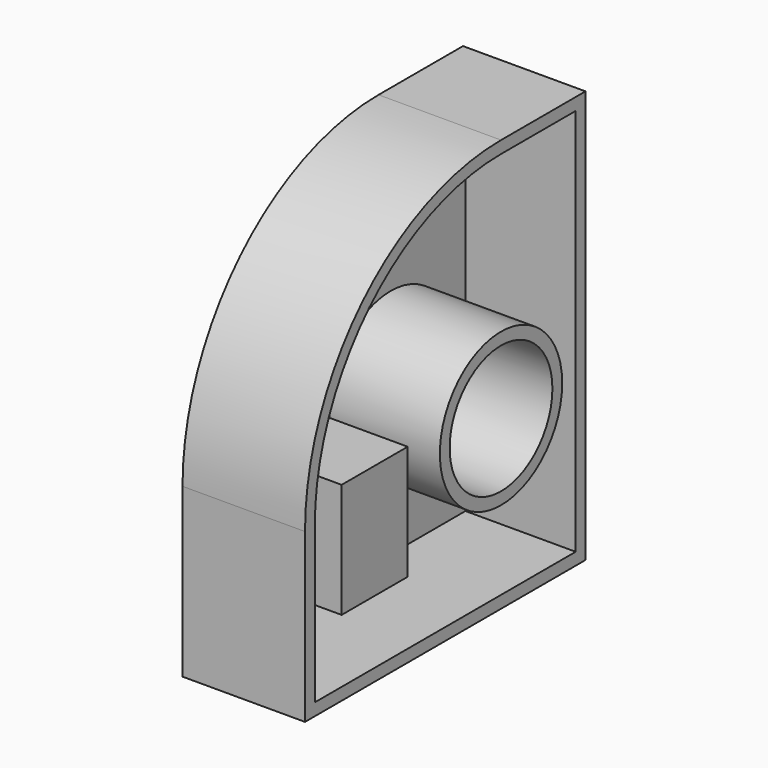
from build123d import *

# Parameters (mm, degrees)
F0_W     = 72.689131
F0_H     = 85.548859
F1_DEPTH = 25.4
F2_R     = 50.8
F3_R     = 13.311226
F4_DEPTH = 25.4
F5_T     = -2.54
F6_W     = 17.114856
F6_H     = 23.744739
F7_DEPTH = 25.4


with BuildPart() as f1:
    # F0 (on Right) → F1 (new body)
    with BuildSketch(Plane.YZ):
        with Locations((15.549161, -12.564396)):
            Rectangle(F0_W, F0_H)
    extrude(amount=F1_DEPTH)

    # F2
    f2_edges = [f1.edges().sort_by_distance(p)[0] for p in [
        (12.7, -20.795405, 30.210033),
    ]]
    fillet(f2_edges, radius=F2_R)

    # F3 (on face) → F4 (cut)
    with BuildSketch(Plane.YZ.offset(25.4)):
        with Locations((30.004595, -20.589967)):
            Circle(F3_R)
    extrude(amount=-F4_DEPTH, mode=Mode.SUBTRACT)

    # F5
    f5_openings = [f1.faces().sort_by_distance(p)[0] for p in [
        (25.4, 16.684078, -15.097146),
    ]]
    offset(amount=F5_T, openings=f5_openings)

    # F6 (on Right) → F7 (join)
    with BuildSketch(Plane.YZ):
        with Locations((-2.747506, -27.793449)):
            Rectangle(F6_W, F6_H)
    extrude(amount=F7_DEPTH)


solid = f1.part
